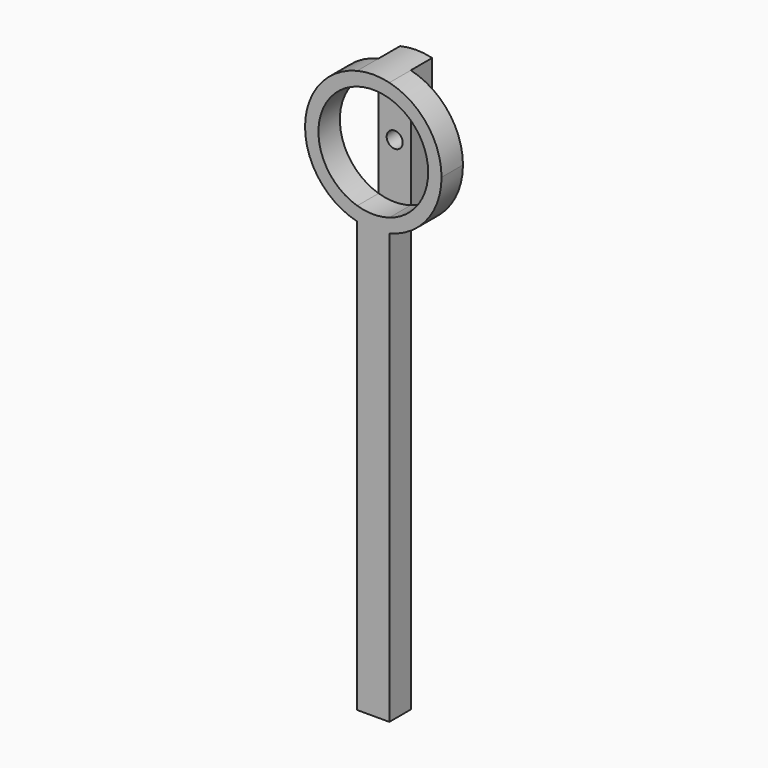
from build123d import *

# Parameters (mm, degrees)
F1_DEPTH = 6.35
F2_DEPTH = 6.35
F3_DEPTH = 6.35
F0_R     = 1.905
F4_DEPTH = 6.35


with BuildPart() as f1:
    # F0 (on Front) → F1 (new body)
    with BuildSketch(Plane.XZ):
        with BuildLine():
            Line((3.81, -117.7925), (3.81, -15.737883))
            ThreePointArc((3.81, -15.737883), (0, -16.1925), (-3.81, -15.737883))
            Line((-3.81, -15.737883), (-3.81, -117.7925))
            Line((-3.81, -117.7925), (3.81, -117.7925))
        make_face()
    extrude(amount=F1_DEPTH)



with BuildPart() as f2:
    # F0 (on Front) → F2 (new body)
    with BuildSketch(Plane.XZ):
        with BuildLine():
            Line((3.81, -12.447458), (3.81, -15.737883))
            ThreePointArc((3.81, -15.737883), (12.725771, -10.012583), (16.1925, 0))
            ThreePointArc((16.1925, 0), (12.725771, 10.012583), (3.81, 15.737883))
            Line((3.81, 15.737883), (3.81, 12.447458))
            ThreePointArc((3.81, 12.447458), (10.465467, 7.741403), (13.0175, 0))
            ThreePointArc((13.0175, 0), (10.465467, -7.741403), (3.81, -12.447458))
        make_face()
        with BuildLine():
            ThreePointArc((-3.81, 15.737883), (-16.1925, 0), (-3.81, -15.737883))
            Line((-3.81, -15.737883), (-3.81, -12.447458))
            ThreePointArc((-3.81, -12.447458), (-13.0175, 0), (-3.81, 12.447458))
            Line((-3.81, 12.447458), (-3.81, 15.737883))
        make_face()
    extrude(amount=F2_DEPTH)


with BuildPart() as f1_1:
    add(f1.part)

    add(f2.part)  # F3 merges F2
    # F0 (on Front) → F3 (join, symmetric)
    with BuildSketch(Plane.XZ):
        with BuildLine():
            Line((3.81, 12.447458), (3.81, 15.737883))
            ThreePointArc((3.81, 15.737883), (0, 16.1925), (-3.81, 15.737883))
            Line((-3.81, 15.737883), (-3.81, 12.447458))
            ThreePointArc((-3.81, 12.447458), (0, 13.0175), (3.81, 12.447458))
        make_face()
        with BuildLine():
            ThreePointArc((-3.81, -15.737883), (0, -16.1925), (3.81, -15.737883))
            Line((3.81, -15.737883), (3.81, -12.447458))
            ThreePointArc((3.81, -12.447458), (0, -13.0175), (-3.81, -12.447458))
            Line((-3.81, -12.447458), (-3.81, -15.737883))
        make_face()
    extrude(amount=F3_DEPTH, both=True)

    # F0 (on Front) → F4 (join)
    with BuildSketch(Plane.XZ):
        with BuildLine():
            ThreePointArc((-3.81, -12.447458), (0, -13.0175), (3.81, -12.447458))
            Line((3.81, -12.447458), (3.81, 12.447458))
            ThreePointArc((3.81, 12.447458), (0, 13.0175), (-3.81, 12.447458))
            Line((-3.81, 12.447458), (-3.81, -12.447458))
        make_face()
        Circle(F0_R, mode=Mode.SUBTRACT)
    extrude(amount=-F4_DEPTH)


solid = f1_1.part
